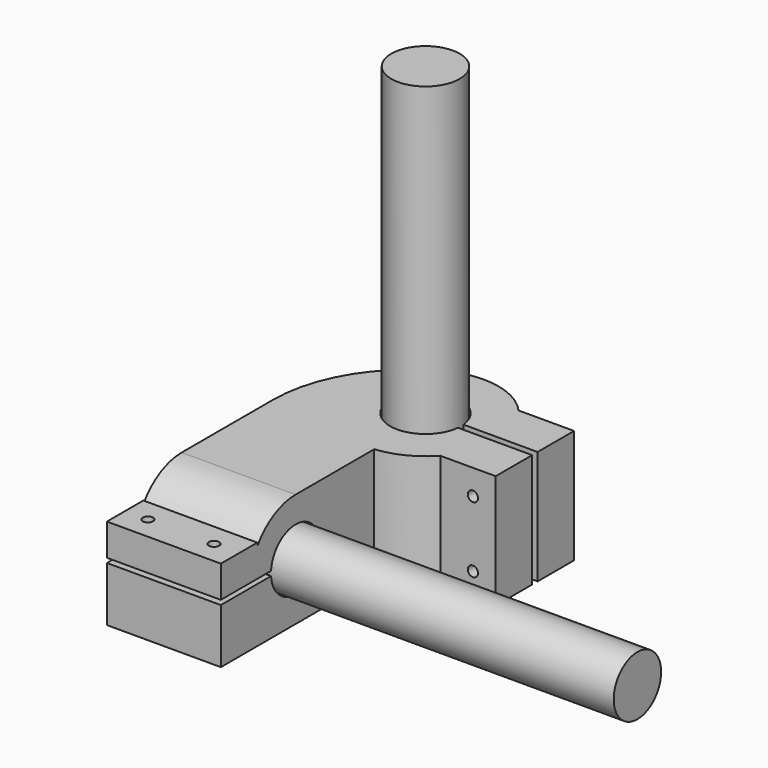
from build123d import *

# Parameters (mm, degrees)
CYLINDER_R                  = 15
CYLINDER_DEPTH              = 199
CYLINDER001_R               = 13
CYLINDER001_DEPTH           = 200
CYLINDER005_R               = 2.25
CYLINDER005_DEPTH           = 50
CYLINDER006_R               = 2.25
CYLINDER006_DEPTH           = 50
FUSION_ROLL_ANGLE           = 90
FUSION_PLACEMENT_ANGLE      = 90
CYLINDER004_R               = 15.5
CYLINDER004_DEPTH           = 199
CYLINDER003_R               = 13.5
CYLINDER003_DEPTH           = 200
BOX_W                       = 20
BOX_H                       = 3
BOX_DEPTH                   = 50
BOX006_W                    = 50
BOX006_H                    = 27
BOX006_DEPTH                = 2
CYLINDER007_R               = 2.25
CYLINDER007_DEPTH           = 50
CYLINDER008_R               = 2.25
CYLINDER008_DEPTH           = 50
BOX001_W                    = 25
BOX001_H                    = 20
BOX001_DEPTH                = 50
BOX002_W                    = 25
BOX002_H                    = 20
BOX002_DEPTH                = 50
BOX003_W                    = 50
BOX003_H                    = 75
BOX003_DEPTH                = 10
BOX004_W                    = 50
BOX004_H                    = 52
BOX004_DEPTH                = 14
BOX005_W                    = 50
BOX005_H                    = 20
BOX005_DEPTH                = 14
CYLINDER002_W               = 60
CYLINDER002_H               = 50
CYLINDER002_ANGLE           = 60
CYLINDER002_PLACEMENT_ANGLE = 120
TUBE_R                      = 32
TUBE_R_2                    = 15.5
TUBE_DEPTH                  = 50
TUBE001_R                   = 25
TUBE001_R_2                 = 13.5
TUBE001_DEPTH               = 50
BOX007_W                    = 50
BOX007_H                    = 50
BOX007_DEPTH                = 50


with BuildPart() as horizontal:
    # Cylinder → Cylinder (new body)
    with BuildSketch(Plane.XY):
        Circle(CYLINDER_R)
    extrude(amount=CYLINDER_DEPTH)


with BuildPart() as vertical:
    # Cylinder001 → Cylinder001 (new body)
    with BuildSketch(Plane(origin=(-47, -75, 40), x_dir=(0, 1, 0), z_dir=(1, 0, 0))):
        Circle(CYLINDER001_R)
    extrude(amount=CYLINDER001_DEPTH)


with BuildPart() as m4s:
    # Cylinder005 → Cylinder005 (new body)
    with BuildSketch(Plane(origin=(38, 22, 25), x_dir=(1, 0, 0), z_dir=(0, -1, 0))):
        Circle(CYLINDER005_R)
    extrude(amount=CYLINDER005_DEPTH)


with BuildPart() as m4s002:
    # Cylinder006 → Cylinder006 (new body)
    with BuildSketch(Plane(origin=(38, 22, 54), x_dir=(1, 0, 0), z_dir=(0, -1, 0))):
        Circle(CYLINDER006_R)
    extrude(amount=CYLINDER006_DEPTH)

    # Fusion: union m4s
    add(m4s.part)


with BuildPart() as obj1:
    # Fusion roll: moved
    add(m4s002.part.rotate(Axis((0, 0, 0), (1, 0, 0)), FUSION_ROLL_ANGLE))


with BuildPart() as obj2:
    # Fusion placement: moved
    add(obj1.part.moved(Location((-62, -144, 43))).rotate(Axis((-62, -144, 43), (0, 0, 1)), FUSION_PLACEMENT_ANGLE))


with BuildPart() as horizontal001cuts:
    # Cylinder004 → Cylinder004 (new body)
    with BuildSketch(Plane.XY):
        Circle(CYLINDER004_R)
    extrude(amount=CYLINDER004_DEPTH)


with BuildPart() as vertical001cuts:
    # Cylinder003 → Cylinder003 (new body)
    with BuildSketch(Plane(origin=(-47, -75, 40), x_dir=(0, 1, 0), z_dir=(1, 0, 0))):
        Circle(CYLINDER003_R)
    extrude(amount=CYLINDER003_DEPTH)


with BuildPart() as obj3:
    # Box → Box (new body)
    with BuildSketch(Plane(origin=(14, -1.5, 15), x_dir=(1, 0, 0), z_dir=(0, 0, 1))):
        with Locations((10, 1.5)):
            Rectangle(BOX_W, BOX_H)
    extrude(amount=BOX_DEPTH)


with BuildPart() as vercuts:
    # Box006 → Box006 (new body)
    with BuildSketch(Plane(origin=(-47, -110, 39), x_dir=(1, 0, 0), z_dir=(0, 0, 1))):
        with Locations((25, 13.5)):
            Rectangle(BOX006_W, BOX006_H)
    extrude(amount=BOX006_DEPTH)


with BuildPart() as m4s004:
    # Cylinder007 → Cylinder007 (new body)
    with BuildSketch(Plane(origin=(38, 22, 25), x_dir=(1, 0, 0), z_dir=(0, -1, 0))):
        Circle(CYLINDER007_R)
    extrude(amount=CYLINDER007_DEPTH)


with BuildPart() as cuts:
    # Cylinder008 → Cylinder008 (new body)
    with BuildSketch(Plane(origin=(38, 22, 54), x_dir=(1, 0, 0), z_dir=(0, -1, 0))):
        Circle(CYLINDER008_R)
    extrude(amount=CYLINDER008_DEPTH)

    # Fusion001: union m4s004
    add(m4s004.part)

    # Fusion002: union m4s002, Horizontal001Cuts, Vertical001Cuts, obj3, verCuts
    add(obj2.part)
    add(horizontal001cuts.part)
    add(vertical001cuts.part)
    add(obj3.part)
    add(vercuts.part)


with BuildPart() as obj4:
    # Box001 → Box001 (new body)
    with BuildSketch(Plane(origin=(23, -21.5, 15), x_dir=(1, 0, 0), z_dir=(0, 0, 1))):
        with Locations((12.5, 10)):
            Rectangle(BOX001_W, BOX001_H)
    extrude(amount=BOX001_DEPTH)


with BuildPart() as obj5:
    # Box002 → Box002 (new body)
    with BuildSketch(Plane(origin=(23, 1.5, 15), x_dir=(1, 0, 0), z_dir=(0, 0, 1))):
        with Locations((12.5, 10)):
            Rectangle(BOX002_W, BOX002_H)
    extrude(amount=BOX002_DEPTH)


with BuildPart() as veraddons:
    # Box003 → Box003 (new body)
    with BuildSketch(Plane(origin=(-47, -116, 15), x_dir=(1, 0, 0), z_dir=(0, 0, 1))):
        with Locations((25, 37.5)):
            Rectangle(BOX003_W, BOX003_H)
    extrude(amount=BOX003_DEPTH)


with BuildPart() as veraddons001:
    # Box004 → Box004 (new body)
    with BuildSketch(Plane(origin=(-47, -116, 25), x_dir=(1, 0, 0), z_dir=(0, 0, 1))):
        with Locations((25, 26)):
            Rectangle(BOX004_W, BOX004_H)
    extrude(amount=BOX004_DEPTH)


with BuildPart() as veraddons002:
    # Box005 → Box005 (new body)
    with BuildSketch(Plane(origin=(-47, -116, 41), x_dir=(1, 0, 0), z_dir=(0, 0, 1))):
        with Locations((25, 10)):
            Rectangle(BOX005_W, BOX005_H)
    extrude(amount=BOX005_DEPTH)


with BuildPart() as obj6:
    # Cylinder002 → Cylinder002 (revolve)
    with BuildSketch(Plane.XZ):
        with Locations((30, 25)):
            Rectangle(CYLINDER002_W, CYLINDER002_H)
    revolve(axis=Axis((0, 0, 0), (0, 0, 1)), revolution_arc=CYLINDER002_ANGLE)


with BuildPart() as obj6_1:
    # Cylinder002 placement: moved
    add(obj6.part.moved(Location((13, -25, 15))).rotate(Axis((13, -25, 15), (0, 0, 1)), CYLINDER002_PLACEMENT_ANGLE))


with BuildPart() as tubeaddons:
    # Tube → Tube (new body)
    with BuildSketch(Plane.XY.offset(15)):
        Circle(TUBE_R)
        Circle(TUBE_R_2, mode=Mode.SUBTRACT)
    extrude(amount=TUBE_DEPTH)


with BuildPart() as tubeaddons001:
    # Tube001 → Tube001 (new body)
    with BuildSketch(Plane(origin=(-47, -75, 40), x_dir=(0, 0, -1), z_dir=(1, 0, 0))):
        Circle(TUBE001_R)
        Circle(TUBE001_R_2, mode=Mode.SUBTRACT)
    extrude(amount=TUBE001_DEPTH)


with BuildPart() as rear:
    # Box007 → Box007 (new body)
    with BuildSketch(Plane(origin=(-47, -75, 15), x_dir=(1, 0, 0), z_dir=(0, 0, 1))):
        with Locations((25, 25)):
            Rectangle(BOX007_W, BOX007_H)
    extrude(amount=BOX007_DEPTH)

    # Fusion003: union obj4, obj5, VerAddons, VerAddons001, VerAddons002, obj6, TubeAddons, TubeAddons001
    add(obj4.part)
    add(obj5.part)
    add(veraddons.part)
    add(veraddons001.part)
    add(veraddons002.part)
    add(obj6_1.part)
    add(tubeaddons.part)
    add(tubeaddons001.part)

    # Cut: cut cuts
    add(cuts.part, mode=Mode.SUBTRACT)


solid = Compound([horizontal.part, vertical.part, rear.part])
